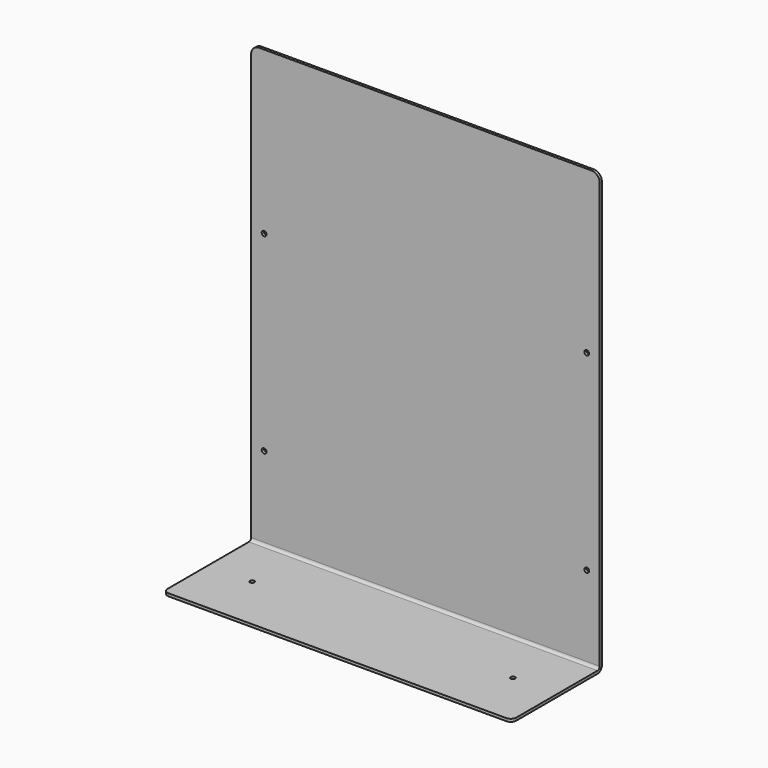
from build123d import *

# Parameters (mm, degrees)
F1_DEPTH = 127
F2_R     = 2
F3_R     = 4
F4_R     = 6
F5_R     = 4
F6_R     = 1.625
F7_DEPTH = 2
F8_R     = 1.75
F9_DEPTH = 2


with BuildPart() as f1:
    # F0 (on Right) → F1 (new body, symmetric)
    with BuildSketch(Plane.YZ):
        Polygon((-82, 0), (0, 0), (0, 320), (-2, 320), (-2, 2), (-82, 2), align=None)
    extrude(amount=F1_DEPTH, both=True)

    # F2
    f2_edges = [f1.edges().sort_by_distance(p)[0] for p in [
        (0, -2, 2),
    ]]
    fillet(f2_edges, radius=F2_R)

    # F3
    f3_edges = [f1.edges().sort_by_distance(p)[0] for p in [
        (0, 0, 0),
    ]]
    fillet(f3_edges, radius=F3_R)

    # F4
    f4_edges = [f1.edges().sort_by_distance(p)[0] for p in [
        (127, -1, 320),
        (-127, -1, 320),
    ]]
    fillet(f4_edges, radius=F4_R)

    # F5
    f5_edges = [f1.edges().sort_by_distance(p)[0] for p in [
        (127, -82, 1),
        (-127, -82, 1),
    ]]
    fillet(f5_edges, radius=F5_R)

    # F6 (on face) → F7 (cut, through all)
    with BuildSketch(Plane(origin=(0, 0, 0), x_dir=(1, 0, 0), z_dir=(0, 0, -1))):
        with Locations((95, 41)):
            Circle(F6_R)
        with Locations((-95, 41)):
            Circle(F6_R)
    extrude(amount=-F7_DEPTH, mode=Mode.SUBTRACT)

    # F8 (on face) → F9 (cut, through all)
    with BuildSketch(Plane(origin=(0, 0, 0), x_dir=(-1, 0, 0), z_dir=(0, 1, 0))):
        with Locations((117.5, 202)):
            Circle(F8_R)
        with Locations((-117.5, 202)):
            Circle(F8_R)
        with Locations((117.5, 62.6)):
            Circle(F8_R)
        with Locations((-117.5, 62.6)):
            Circle(F8_R)
    extrude(amount=-F9_DEPTH, mode=Mode.SUBTRACT)


solid = f1.part
